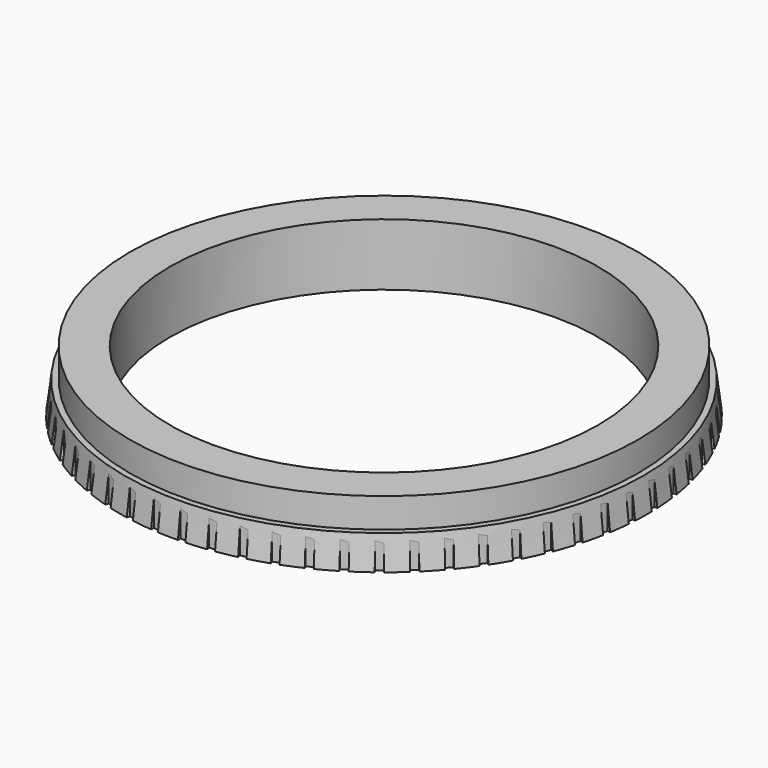
from build123d import *

# Parameters (mm, degrees)
F2_W     = 0.370362
F2_H     = 0.204029
F2_W_2   = 0.204029
F2_H_2   = 0.370362
F3_DEPTH = 25.4


with BuildPart() as f1:
    # F0 (on Front) → F1 (revolve)
    with BuildSketch(Plane.XZ):
        Polygon((10.965226, 3.175), (10.965226, 0), (13.505226, 0), (13.304449, 1.66394), (13.005639, 1.66394), (13.005639, 3.175), align=None)
    revolve(axis=Axis((0, 0, 2.540329), (0, 0, 1)))

    # F2 (on face) → F3 (cut)
    with BuildSketch(Plane(origin=(0, 0, 0), x_dir=(1, 0, 0), z_dir=(0, 0, -1))):
        with Locations((0.441124, 13.44389)):
            Rectangle(F2_W, F2_H)
        Polygon((-0.793058, 13.537166), (-1.161392, 13.498453), (-1.140065, 13.295541), (-0.771731, 13.334254), align=None)
        Polygon((-2.203733, 13.380111), (-2.566002, 13.303108), (-2.523582, 13.103537), (-2.161313, 13.18054), align=None)
        Polygon((-3.590263, 13.07646), (-3.942499, 12.962012), (-3.87945, 12.767968), (-3.527214, 12.882417), align=None)
        Polygon((-4.937458, 12.629542), (-5.275801, 12.478901), (-5.192815, 12.292511), (-4.854471, 12.443151), align=None)
        Polygon((-6.230556, 12.044251), (-6.5513, 11.859069), (-6.449285, 11.682375), (-6.128541, 11.867556), align=None)
        Polygon((-7.455392, 11.327001), (-7.755021, 11.109307), (-7.635096, 10.944243), (-7.335466, 11.161937), align=None)
        Polygon((-8.598544, 10.48565), (-8.873777, 10.237828), (-8.737255, 10.086205), (-8.462022, 10.334026), align=None)
        Polygon((-9.647489, 9.529415), (-9.89531, 9.254182), (-9.743687, 9.11766), (-9.495866, 9.392893), align=None)
        Polygon((-10.590734, 8.468775), (-10.808428, 8.169145), (-10.643365, 8.04922), (-10.425671, 8.34885), align=None)
        Polygon((-11.417945, 7.315349), (-11.603127, 6.994605), (-11.426432, 6.892591), (-11.241251, 7.213334), align=None)
        Polygon((-12.120059, 6.081775), (-12.270699, 5.743431), (-12.084309, 5.660445), (-11.933669, 5.998788), align=None)
        Polygon((-12.689382, 4.781567), (-12.803831, 4.429331), (-12.609787, 4.366282), (-12.495339, 4.718518), align=None)
        Polygon((-13.119678, 3.428971), (-13.196681, 3.066702), (-12.99711, 3.024282), (-12.920108, 3.386551), align=None)
        Polygon((-13.406233, 2.038807), (-13.444946, 1.670473), (-13.242034, 1.649146), (-13.203321, 2.01748), align=None)
        with Locations((-13.44389, 0.441124)):
            Rectangle(F2_W_2, F2_H_2)
        Polygon((-13.537166, -0.793058), (-13.498453, -1.161392), (-13.295541, -1.140065), (-13.334254, -0.771731), align=None)
        Polygon((-13.380111, -2.203733), (-13.303108, -2.566002), (-13.103537, -2.523582), (-13.18054, -2.161313), align=None)
        Polygon((-13.07646, -3.590263), (-12.962012, -3.942499), (-12.767968, -3.87945), (-12.882417, -3.527214), align=None)
        Polygon((-12.629542, -4.937458), (-12.478901, -5.275801), (-12.292511, -5.192815), (-12.443151, -4.854471), align=None)
        Polygon((-12.044251, -6.230556), (-11.859069, -6.5513), (-11.682375, -6.449285), (-11.867556, -6.128541), align=None)
        Polygon((-11.327001, -7.455392), (-11.109307, -7.755021), (-10.944243, -7.635096), (-11.161937, -7.335466), align=None)
        Polygon((-10.48565, -8.598544), (-10.237828, -8.873777), (-10.086205, -8.737255), (-10.334026, -8.462022), align=None)
        Polygon((-9.529415, -9.647489), (-9.254182, -9.89531), (-9.11766, -9.743687), (-9.392893, -9.495866), align=None)
        Polygon((-8.468775, -10.590734), (-8.169145, -10.808428), (-8.04922, -10.643365), (-8.34885, -10.425671), align=None)
        Polygon((-7.315349, -11.417945), (-6.994605, -11.603127), (-6.892591, -11.426432), (-7.213334, -11.241251), align=None)
        Polygon((-6.081775, -12.120059), (-5.743431, -12.270699), (-5.660445, -12.084309), (-5.998788, -11.933669), align=None)
        Polygon((-4.781567, -12.689382), (-4.429331, -12.803831), (-4.366282, -12.609787), (-4.718518, -12.495339), align=None)
        Polygon((-3.428971, -13.119678), (-3.066702, -13.196681), (-3.024282, -12.99711), (-3.386551, -12.920108), align=None)
        Polygon((-2.038807, -13.406233), (-1.670473, -13.444946), (-1.649146, -13.242034), (-2.01748, -13.203321), align=None)
        with Locations((-0.441124, -13.44389)):
            Rectangle(F2_W, F2_H)
        Polygon((0.793058, -13.537166), (1.161392, -13.498453), (1.140065, -13.295541), (0.771731, -13.334254), align=None)
        Polygon((2.203733, -13.380111), (2.566002, -13.303108), (2.523582, -13.103537), (2.161313, -13.18054), align=None)
        Polygon((3.590263, -13.07646), (3.942499, -12.962012), (3.87945, -12.767968), (3.527214, -12.882417), align=None)
        Polygon((4.937458, -12.629542), (5.275801, -12.478901), (5.192815, -12.292511), (4.854471, -12.443151), align=None)
        Polygon((6.230556, -12.044251), (6.5513, -11.859069), (6.449285, -11.682375), (6.128541, -11.867556), align=None)
        Polygon((7.455392, -11.327001), (7.755021, -11.109307), (7.635096, -10.944243), (7.335466, -11.161937), align=None)
        Polygon((8.598544, -10.48565), (8.873777, -10.237828), (8.737255, -10.086205), (8.462022, -10.334026), align=None)
        Polygon((9.647489, -9.529415), (9.89531, -9.254182), (9.743687, -9.11766), (9.495866, -9.392893), align=None)
        Polygon((10.590734, -8.468775), (10.808428, -8.169145), (10.643365, -8.04922), (10.425671, -8.34885), align=None)
        Polygon((11.417945, -7.315349), (11.603127, -6.994605), (11.426432, -6.892591), (11.241251, -7.213334), align=None)
        Polygon((12.120059, -6.081775), (12.270699, -5.743431), (12.084309, -5.660445), (11.933669, -5.998788), align=None)
        Polygon((12.689382, -4.781567), (12.803831, -4.429331), (12.609787, -4.366282), (12.495339, -4.718518), align=None)
        Polygon((13.119678, -3.428971), (13.196681, -3.066702), (12.99711, -3.024282), (12.920108, -3.386551), align=None)
        Polygon((13.406233, -2.038807), (13.444946, -1.670473), (13.242034, -1.649146), (13.203321, -2.01748), align=None)
        with Locations((13.44389, -0.441124)):
            Rectangle(F2_W_2, F2_H_2)
        Polygon((13.537166, 0.793058), (13.498453, 1.161392), (13.295541, 1.140065), (13.334254, 0.771731), align=None)
        Polygon((13.380111, 2.203733), (13.303108, 2.566002), (13.103537, 2.523582), (13.18054, 2.161313), align=None)
        Polygon((13.07646, 3.590263), (12.962012, 3.942499), (12.767968, 3.87945), (12.882417, 3.527214), align=None)
        Polygon((12.629542, 4.937458), (12.478901, 5.275801), (12.292511, 5.192815), (12.443151, 4.854471), align=None)
        Polygon((12.044251, 6.230556), (11.859069, 6.5513), (11.682375, 6.449285), (11.867556, 6.128541), align=None)
        Polygon((11.327001, 7.455392), (11.109307, 7.755021), (10.944243, 7.635096), (11.161937, 7.335466), align=None)
        Polygon((10.48565, 8.598544), (10.237828, 8.873777), (10.086205, 8.737255), (10.334026, 8.462022), align=None)
        Polygon((9.529415, 9.647489), (9.254182, 9.89531), (9.11766, 9.743687), (9.392893, 9.495866), align=None)
        Polygon((8.468775, 10.590734), (8.169145, 10.808428), (8.04922, 10.643365), (8.34885, 10.425671), align=None)
        Polygon((7.315349, 11.417945), (6.994605, 11.603127), (6.892591, 11.426432), (7.213334, 11.241251), align=None)
        Polygon((6.081775, 12.120059), (5.743431, 12.270699), (5.660445, 12.084309), (5.998788, 11.933669), align=None)
        Polygon((4.781567, 12.689382), (4.429331, 12.803831), (4.366282, 12.609787), (4.718518, 12.495339), align=None)
        Polygon((3.428971, 13.119678), (3.066702, 13.196681), (3.024282, 12.99711), (3.386551, 12.920108), align=None)
        Polygon((2.038807, 13.406233), (1.670473, 13.444946), (1.649146, 13.242034), (2.01748, 13.203321), align=None)
    extrude(amount=-F3_DEPTH, mode=Mode.SUBTRACT)


solid = f1.part
